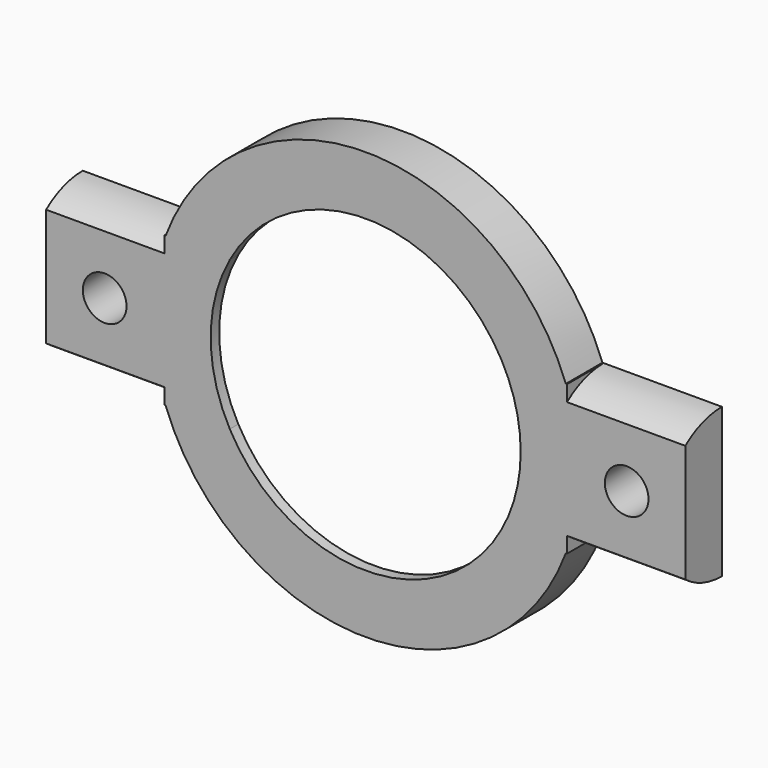
from build123d import *

# Parameters (mm, degrees)
F0_W      = 120
F0_H      = 28
F1_DEPTH  = 8.6
F3_DEPTH  = 8.601
F2_R      = 40.1
F2_R_2    = 29.1
F4_DEPTH  = 8.6
F6_R      = 4.1
F7_DEPTH  = 8.601
F9_DEPTH  = 22.2
F11_DEPTH = 22.2
F12_R     = 36.3
F12_R_2   = 29.1
F13_DEPTH = 6.6


with BuildPart() as f1:
    # F0 (on Front) → F1 (new body)
    with BuildSketch(Plane.XZ):
        Rectangle(F0_W, F0_H)
    extrude(amount=F1_DEPTH)

    # F2 (on face) → F3 (cut, through all)
    with BuildSketch(Plane.XZ.offset(8.6)):
        with BuildLine():
            Line((-25.5109780291, 14), (25.5109780291, 14))
            ThreePointArc((25.5109780291, 14), (0, 29.1), (-25.5109780291, 14))
        make_face()
        with BuildLine():
            ThreePointArc((29.1, 0), (28.1884680379, 7.2263593653), (25.5109780291, 14))
            Line((25.5109780291, 14), (-25.5109780291, 14))
            ThreePointArc((-25.5109780291, 14), (-29.1, 0), (-25.5109780291, -14))
            Line((-25.5109780291, -14), (25.5109780291, -14))
            ThreePointArc((25.5109780291, -14), (28.1884680379, -7.2263593653), (29.1, 0))
        make_face()
        with BuildLine():
            ThreePointArc((-25.5109780291, -14), (0, -29.1), (25.5109780291, -14))
            Line((25.5109780291, -14), (-25.5109780291, -14))
        make_face()
    extrude(amount=-F3_DEPTH, mode=Mode.SUBTRACT)


with BuildPart() as f4:
    # F2 (on face) → F4 (new body)
    with BuildSketch(Plane.XZ.offset(8.6)):
        Circle(F2_R)
        Circle(F2_R_2, mode=Mode.SUBTRACT)
    extrude(amount=-F4_DEPTH)


with BuildPart() as f1_1:
    add(f1.part)

    # F5: union F4
    add(f4.part)

    # F6 (on face) → F7 (cut, through all)
    with BuildSketch(Plane.XZ.offset(8.6)):
        with Locations((-49, 0)):
            Circle(F6_R)
        with Locations((49, 0)):
            Circle(F6_R)
    extrude(amount=-F7_DEPTH, mode=Mode.SUBTRACT)

    # F8 (on face) → F9 (cut)
    with BuildSketch(Plane.YZ.offset(60)):
        with BuildLine():
            ThreePointArc((-8.6, 11.0471715837), (-4.5464050539, 13.2412311016), (0, 14))
            Line((0, 14), (-8.6, 14))
            Line((-8.6, 14), (-8.6, 11.0471715837))
        make_face()
        with BuildLine():
            Line((-8.6, -14), (0, -14))
            ThreePointArc((0, -14), (-4.5464050539, -13.2412311016), (-8.6, -11.0471715837))
            Line((-8.6, -11.0471715837), (-8.6, -14))
        make_face()
    extrude(amount=-F9_DEPTH, mode=Mode.SUBTRACT)

    # F10 (on face) → F11 (cut)
    with BuildSketch(Plane(origin=(-60, 0, 0), x_dir=(0, -1, 0), z_dir=(-1, 0, 0))):
        with BuildLine():
            Line((8.6, 14), (0, 14))
            ThreePointArc((0, 14), (4.5464050539, 13.2412311016), (8.6, 11.0471715837))
            Line((8.6, 11.0471715837), (8.6, 14))
        make_face()
        with BuildLine():
            ThreePointArc((8.6, -11.0471715837), (4.5464050539, -13.2412311016), (0, -14))
            Line((0, -14), (8.6, -14))
            Line((8.6, -14), (8.6, -11.0471715837))
        make_face()
    extrude(amount=-F11_DEPTH, mode=Mode.SUBTRACT)

    # F12 (on face) → F13 (cut)
    with BuildSketch(Plane(origin=(0, 0, 0), x_dir=(-1, 0, 0), z_dir=(0, 1, 0))):
        Circle(F12_R)
        Circle(F12_R_2, mode=Mode.SUBTRACT)
    extrude(amount=-F13_DEPTH, mode=Mode.SUBTRACT)


solid = f1_1.part
